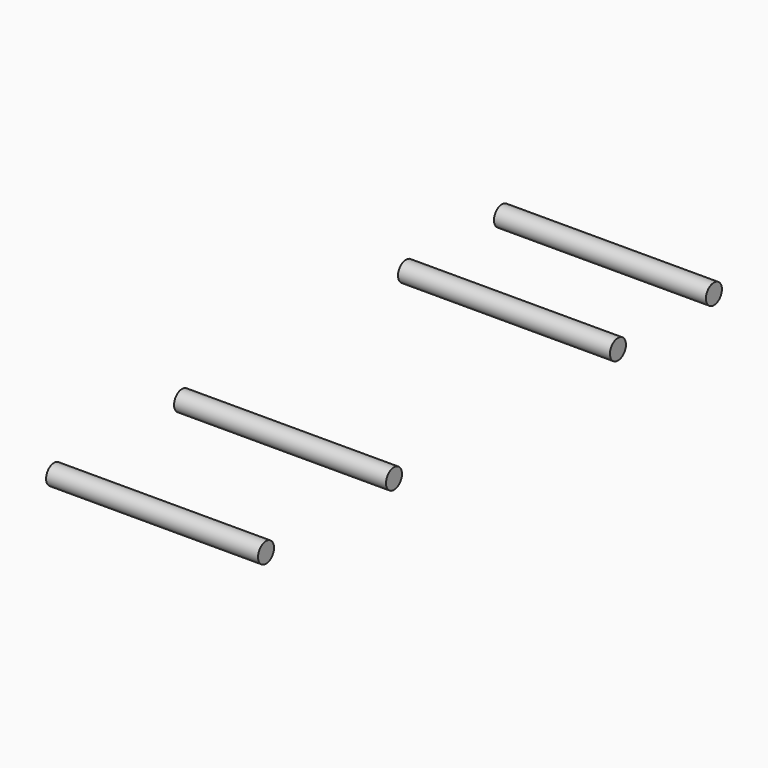
from build123d import *

# Parameters (mm, degrees)
CYLINDER062_R     = 2.5
CYLINDER062_DEPTH = 53
CYLINDER061_R     = 2.5
CYLINDER061_DEPTH = 53
CYLINDER060_R     = 2.5
CYLINDER060_DEPTH = 53
CYLINDER059_R     = 2.5
CYLINDER059_DEPTH = 53


with BuildPart() as cylinder061:
    # Cylinder062 → Cylinder062 (new body)
    with BuildSketch(Plane(origin=(-26.5, -40, -13.5), x_dir=(0, 0, -1), z_dir=(1, 0, 0))):
        Circle(CYLINDER062_R)
    extrude(amount=CYLINDER062_DEPTH)


with BuildPart() as fusion023:
    # Cylinder061 → Cylinder061 (new body)
    with BuildSketch(Plane(origin=(-26.5, -10, -13.5), x_dir=(0, 0, -1), z_dir=(1, 0, 0))):
        Circle(CYLINDER061_R)
    extrude(amount=CYLINDER061_DEPTH)

    # Fusion023: union Cylinder061
    add(cylinder061.part)


with BuildPart() as cylinder059:
    # Cylinder060 → Cylinder060 (new body)
    with BuildSketch(Plane(origin=(-26.5, -110, -13.5), x_dir=(0, 0, -1), z_dir=(1, 0, 0))):
        Circle(CYLINDER060_R)
    extrude(amount=CYLINDER060_DEPTH)


with BuildPart() as fusion024:
    # Cylinder059 → Cylinder059 (new body)
    with BuildSketch(Plane(origin=(-26.5, -150, -13.5), x_dir=(0, 0, -1), z_dir=(1, 0, 0))):
        Circle(CYLINDER059_R)
    extrude(amount=CYLINDER059_DEPTH)

    # Fusion022: union Cylinder059
    add(cylinder059.part)

    # Fusion024: union Fusion023
    add(fusion023.part)


solid = fusion024.part
